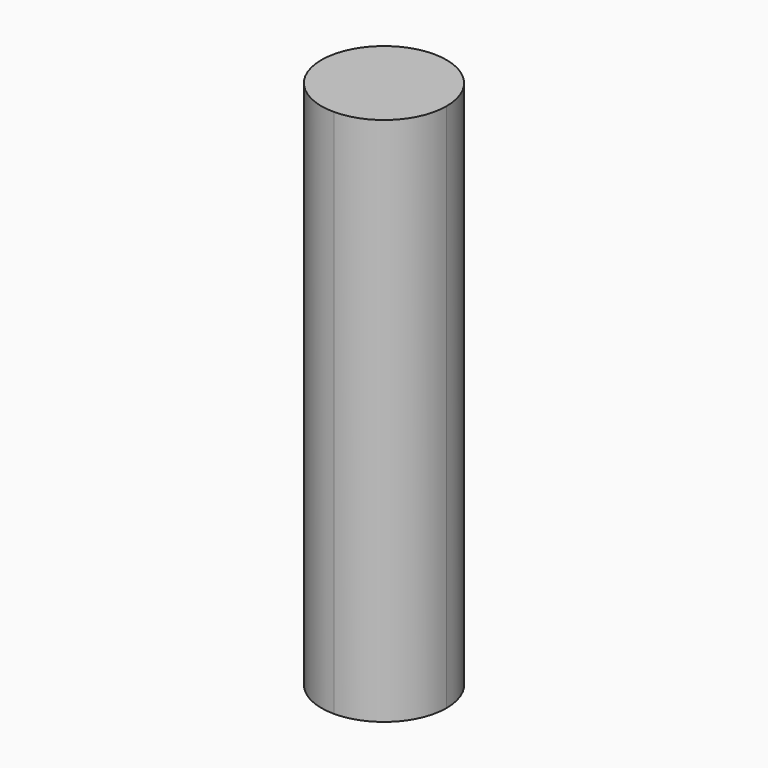
from build123d import *

# Parameters (mm, degrees)
F1_DEPTH = 25.4


with BuildPart() as f1:
    # F0 (on Top) → F1 (new body)
    with BuildSketch(Plane.XY):
        with BuildLine():
            Line((0, -3), (0, 3))
            ThreePointArc((0, 3), (-3, 0), (0, -3))
        make_face()
        with BuildLine():
            ThreePointArc((0, -3), (2.12132, -2.12132), (3, 0))
            ThreePointArc((3, 0), (2.12132, 2.12132), (0, 3))
            Line((0, 3), (0, -3))
        make_face()
        with BuildLine():
            ThreePointArc((0, -3), (2.12132, -2.12132), (3, 0))
            ThreePointArc((3, 0), (2.12132, 2.12132), (0, 3))
            Line((0, 3), (0, -3))
        make_face()
        with BuildLine():
            Line((0, -3), (0, 3))
            ThreePointArc((0, 3), (-3, 0), (0, -3))
        make_face()
    extrude(amount=F1_DEPTH)


with BuildPart() as f1_1:
    # F2: moved
    add(f1.part.moved(Location((0, 0, -65.024))))


solid = f1_1.part
